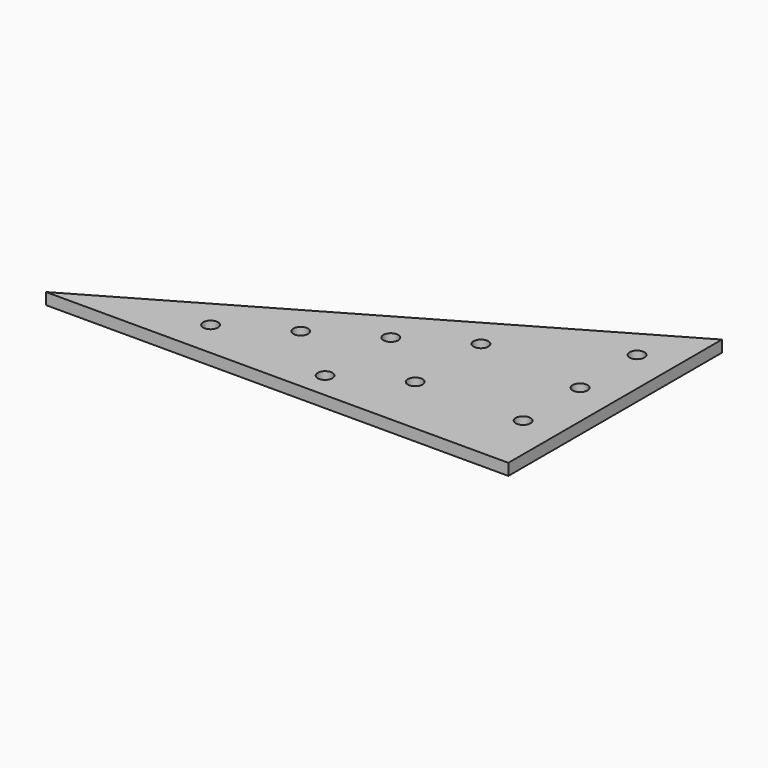
from build123d import *

# Parameters (mm, degrees)
F1_DEPTH = 6.5
F3_D     = 8.3


with BuildPart() as f1:
    # F0 (on Top) → F1 (new body)
    with BuildSketch(Plane.XY):
        Polygon((-259.8076211353, 0), (0, 0), (0, 150), align=None)
    extrude(amount=F1_DEPTH)

    # F3 (through all)
    with Locations(Plane.XY.offset(6.5)):
        with Locations((-80, 80.7179676972), (-114.6410161514, 60.7179676972), (-80, 34.5299461621), (-20, 115.3589838486), (-20, 75.3589838486), (-20, 35.3589838486), (-114.6410161514, 14.5299461621), (-149.2820323028, 40.7179676972), (-183.9230484541, 20.7179676972)):
            Hole(F3_D / 2)


solid = f1.part
